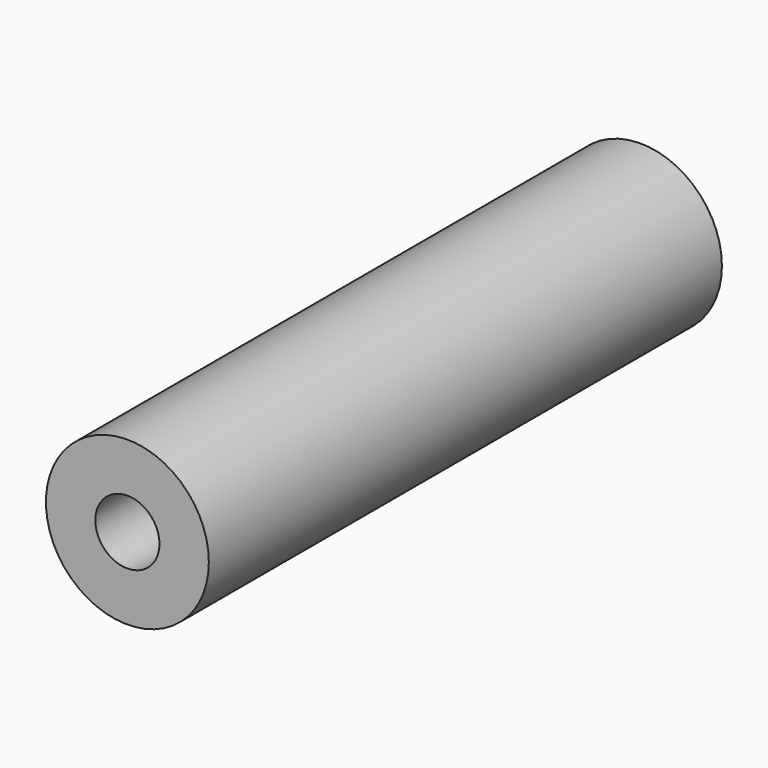
from build123d import *

# Parameters (mm, degrees)
SKETCH_R   = 6.35
SKETCH_R_2 = 2.5
PAD_DEPTH  = 50


with BuildPart() as part:
    # Sketch → Pad (new body)
    with BuildSketch(Plane.XZ):
        Circle(SKETCH_R)
        Circle(SKETCH_R_2, mode=Mode.SUBTRACT)
    extrude(amount=PAD_DEPTH)


solid = part.part
